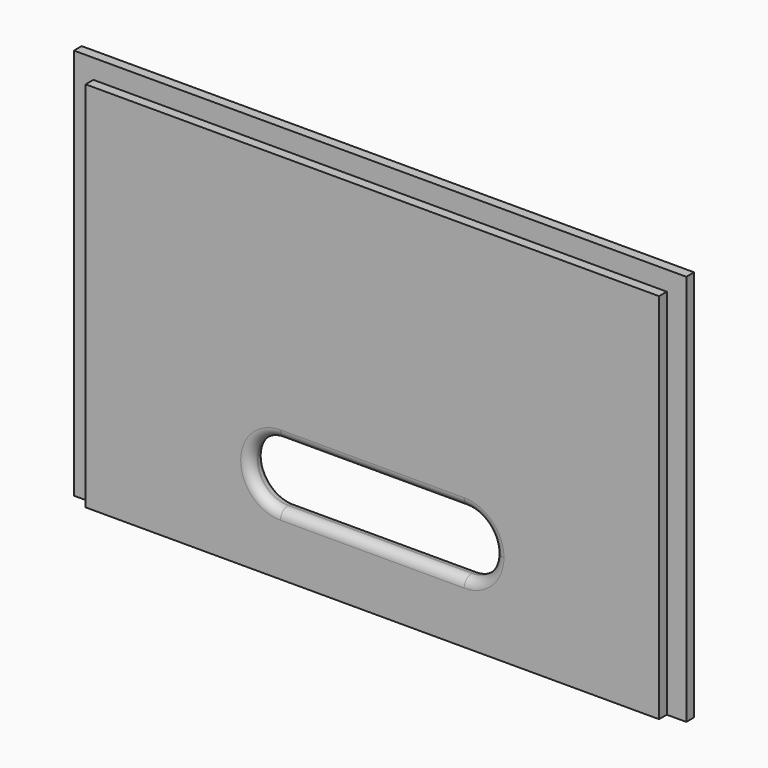
from build123d import *

# Parameters (mm, degrees)
F0_W     = 500
F0_H     = 320
F1_DEPTH = 15.88
F2_W     = 15.88
F2_H     = 7.94
F3_DEPTH = 320.001
F4_W     = 7.94
F4_H     = 15.88
F5_DEPTH = 484.121
F6_R     = 7.5


with BuildPart() as f1:
    # F0 (on Front) → F1 (new body)
    with BuildSketch(Plane.XZ):
        with Locations((276.000002, -4e-06)):
            Rectangle(F0_W, F0_H)
        with BuildLine():
            ThreePointArc((376.000002, -85.000004), (368.677672, -102.677673), (351.000002, -110.000004))
            Line((351.000002, -110.000004), (201.000002, -110.000004))
            ThreePointArc((201.000002, -110.000004), (176.000002, -85.000004), (201.000002, -60.000004))
            Line((201.000002, -60.000004), (351.000002, -60.000004))
            ThreePointArc((351.000002, -60.000004), (368.677672, -67.322334), (376.000002, -85.000004))
        make_face(mode=Mode.SUBTRACT)
        with Locations((276.000002, -4e-06)):
            Rectangle(F0_W, F0_H)
        with BuildLine():
            ThreePointArc((376.000002, -85.000004), (368.677672, -102.677673), (351.000002, -110.000004))
            Line((351.000002, -110.000004), (201.000002, -110.000004))
            ThreePointArc((201.000002, -110.000004), (176.000002, -85.000004), (201.000002, -60.000004))
            Line((201.000002, -60.000004), (351.000002, -60.000004))
            ThreePointArc((351.000002, -60.000004), (368.677672, -67.322334), (376.000002, -85.000004))
        make_face(mode=Mode.SUBTRACT)
    extrude(amount=F1_DEPTH)

    # F2 (on face) → F3 (cut, through all)
    with BuildSketch(Plane(origin=(0, 0, -160.000004), x_dir=(1, 0, 0), z_dir=(0, 0, -1))):
        with Locations((33.940002, 11.91)):
            Rectangle(F2_W, F2_H)
        with Locations((518.060002, 11.91)):
            Rectangle(F2_W, F2_H)
    extrude(amount=-F3_DEPTH, mode=Mode.SUBTRACT)

    # F4 (on face) → F5 (cut, through all)
    with BuildSketch(Plane(origin=(41.880002, 0, 0), x_dir=(0, -1, 0), z_dir=(-1, 0, 0))):
        with Locations((11.91, 152.059996)):
            Rectangle(F4_W, F4_H)
    extrude(amount=-F5_DEPTH, mode=Mode.SUBTRACT)

    # F6
    f6_edges = [f1.edges().sort_by_distance(p)[0] for p in [
        (276.000002, 0, -60.000004),
        (276.000002, -15.88, -60.000004),
    ]]
    fillet(f6_edges, radius=F6_R)


solid = f1.part
